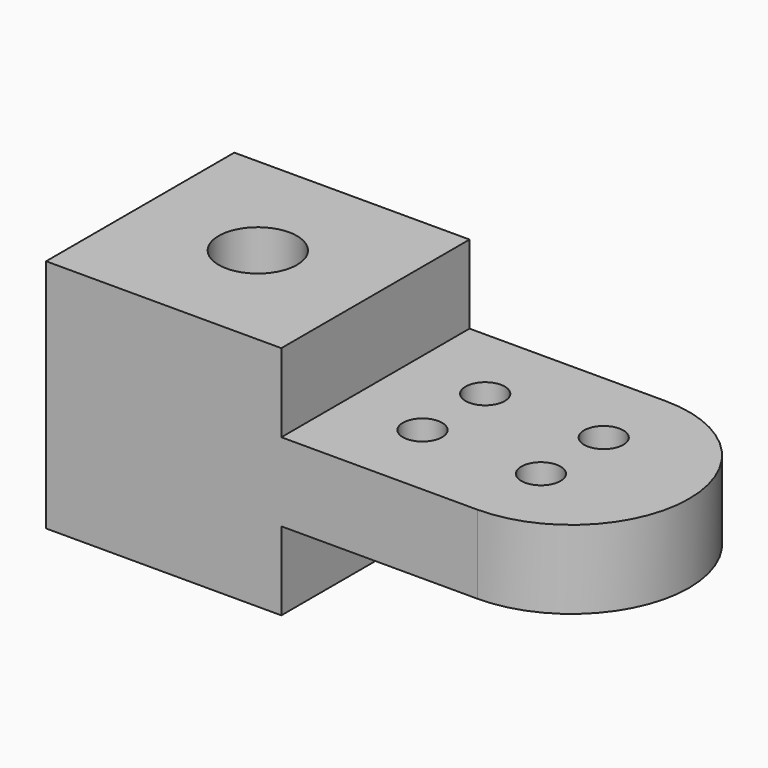
from build123d import *

# Parameters (mm, degrees)
F1_DEPTH = 38.1
F2_W     = 50.8
F2_H     = 12.7
F3_DEPTH = 38.101
F4_R     = 6.35
F4_R_2   = 3.175
F5_DEPTH = 38.101


with BuildPart() as f1:
    # F0 (on Top) → F1 (new body)
    with BuildSketch(Plane.XY):
        with BuildLine():
            Line((0, 38.1), (0, 0))
            Line((0, 0), (69.85, 0))
            ThreePointArc((69.85, 0), (88.9, 19.05), (69.85, 38.1))
            Line((69.85, 38.1), (0, 38.1))
        make_face()
    extrude(amount=F1_DEPTH)

    # F2 (on face) → F3 (cut, through all)
    with BuildSketch(Plane.XZ):
        with Locations((63.5, 6.35)):
            Rectangle(F2_W, F2_H)
        with Locations((63.5, 31.75)):
            Rectangle(F2_W, F2_H)
    extrude(amount=-F3_DEPTH, mode=Mode.SUBTRACT)

    # F4 (on face) → F5 (cut, through all)
    with BuildSketch(Plane.XY.offset(38.1)):
        with Locations((19.05, 19.05)):
            Circle(F4_R)
        with Locations((50.8, 25.4)):
            Circle(F4_R_2)
        with Locations((50.8, 12.7)):
            Circle(F4_R_2)
        with Locations((69.98812, 25.4)):
            Circle(F4_R_2)
        with Locations((69.98812, 12.7)):
            Circle(F4_R_2)
    extrude(amount=-F5_DEPTH, mode=Mode.SUBTRACT)


solid = f1.part
